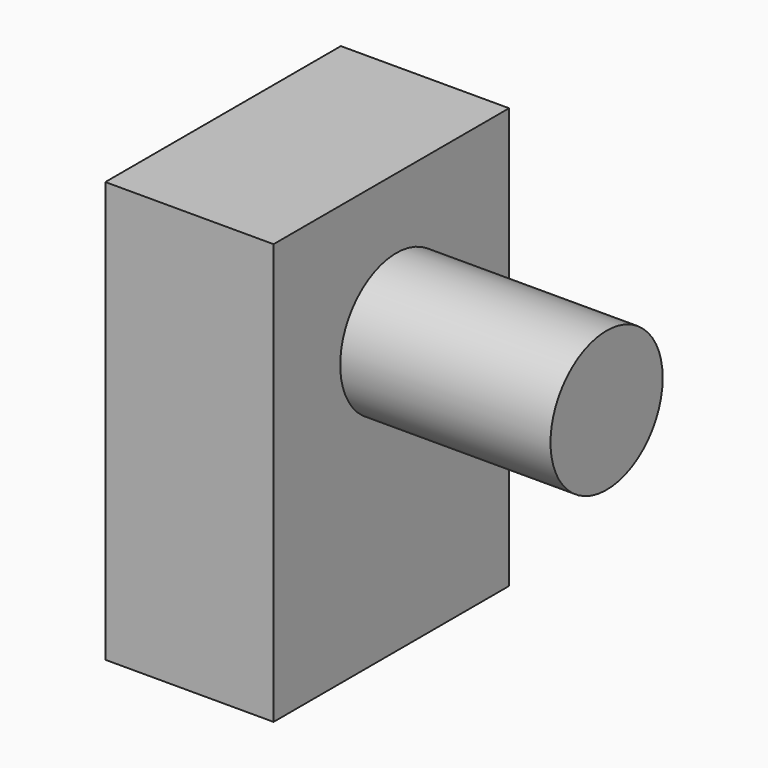
from build123d import *

# Parameters (mm, degrees)
F0_W     = 12
F0_H     = 21
F1_DEPTH = 30
F2_R     = 5
F3_DEPTH = 15


with BuildPart() as f1:
    # F0 (on Top) → F1 (new body)
    with BuildSketch(Plane.XY):
        with Locations((-22.996127, -0.4439)):
            Rectangle(F0_W, F0_H)
    extrude(amount=F1_DEPTH)

    # F2 (on face) → F3 (join)
    with BuildSketch(Plane.YZ.offset(-16.996127)):
        with Locations((0, 20)):
            Circle(F2_R)
    extrude(amount=F3_DEPTH)


solid = f1.part
